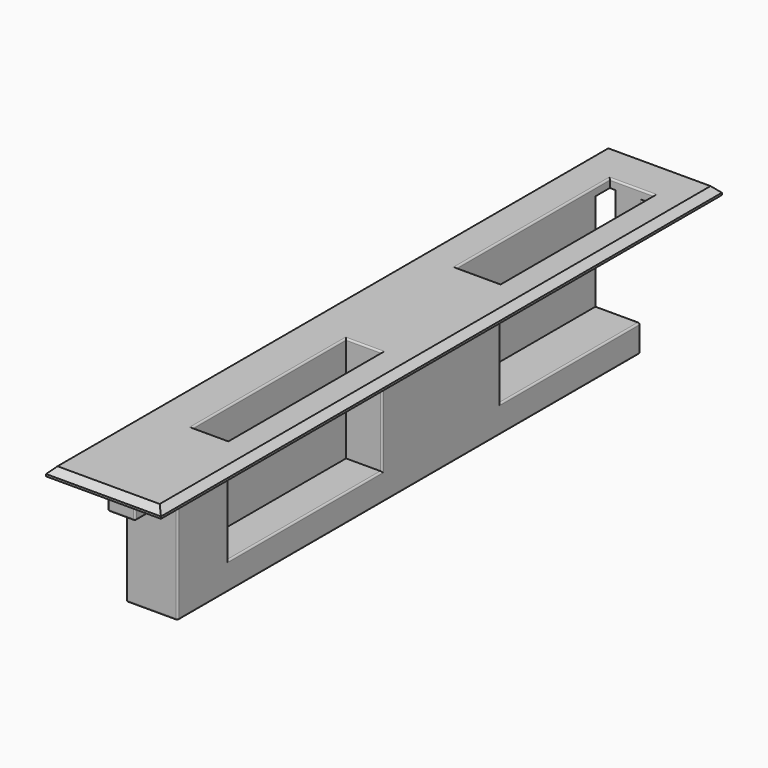
from build123d import *

# Parameters (mm, degrees)
SKETCH_W      = 12.2
SKETCH_H      = 137
PAD_DEPTH     = 29.5
SKETCH002_W   = 27.2
SKETCH002_H   = 166
PAD001_DEPTH  = 2
SKETCH003_W   = 6.5
SKETCH003_H   = 9
PAD002_DEPTH  = 6
SKETCH001_W   = 8.5
SKETCH001_H   = 45.5
SKETCH001_W_2 = 10.5
POCKET_DEPTH  = 25
CHAMFER_SIZE  = 1.5
FILLET_R      = 0.4


with BuildPart() as part:
    # Sketch → Pad (new body)
    with BuildSketch(Plane.XY):
        with Locations((6.1, 68.5)):
            Rectangle(SKETCH_W, SKETCH_H)
    extrude(amount=PAD_DEPTH)

    # Sketch002 → Pad001 (join)
    with BuildSketch(Plane.XY.offset(29.5)):
        with Locations((6.1, 68.73)):
            Rectangle(SKETCH002_W, SKETCH002_H)
    extrude(amount=PAD001_DEPTH)

    # Sketch003 → Pad002 (join)
    with BuildSketch(Plane.XY.offset(29.5)):
        with Locations((6.1, -4.5)):
            Rectangle(SKETCH003_W, SKETCH003_H)
        with Locations((6.1, 141.5)):
            Rectangle(SKETCH003_W, SKETCH003_H)
    extrude(amount=-PAD002_DEPTH)

    # Sketch001 → Pocket (cut)
    with BuildSketch(Plane.XY.offset(31.5)):
        with Locations((7.95, 37.75)):
            Rectangle(SKETCH001_W, SKETCH001_H)
        with Locations((7, 118.25)):
            Rectangle(SKETCH001_W_2, SKETCH001_H)
    extrude(amount=-POCKET_DEPTH, mode=Mode.SUBTRACT)

    # Chamfer
    chamfer_edges = [part.edges().sort_by_distance(p)[0] for p in [
        (6.1, 151.73, 31.5),
        (-7.5, 68.73, 31.5),
        (19.7, 68.73, 31.5),
        (6.1, -14.27, 31.5),
    ]]
    chamfer(chamfer_edges, length=CHAMFER_SIZE)

    # Fillet
    fillet_edges = [part.edges().sort_by_distance(p)[0] for p in [
        (3.7, 37.75, 31.5),
        (7.95, 60.5, 31.5),
        (12.2, 37.75, 31.5),
        (7.95, 15, 31.5),
        (12.25, 118.25, 31.5),
        (7, 95.5, 31.5),
        (1.75, 118.25, 31.5),
        (7, 141, 31.5),
        (12.2, 68.5, 0),
        (0, 68.5, 0),
        (6.1, 137, 0),
        (6.1, 0, 0),
        (12.2, 137, 3.25),
        (0, 137, 14.75),
        (0, 0, 14.75),
        (12.2, 0, 14.75),
        (9.35, -4.5, 23.5),
        (6.1, -9, 23.5),
        (2.85, -4.5, 23.5),
        (2.85, -9, 26.5),
        (9.35, -9, 26.5),
        (12.2, 15, 18),
        (12.2, 37.75, 6.5),
        (12.2, 60.5, 18),
        (12.2, 95.5, 18),
        (12.2, 116.25, 6.5),
        (6.975, 137, 6.5),
        (2.85, 146, 26.5),
        (9.35, 146, 26.5),
        (9.35, 143.5, 23.5),
        (6.1, 146, 23.5),
        (2.85, 143.5, 23.5),
        (6.1, 141, 23.5),
        (9.35, 141, 26.5),
        (2.85, 141, 26.5),
        (1.75, 137, 18),
    ]]
    fillet(fillet_edges, radius=FILLET_R)


solid = part.part
